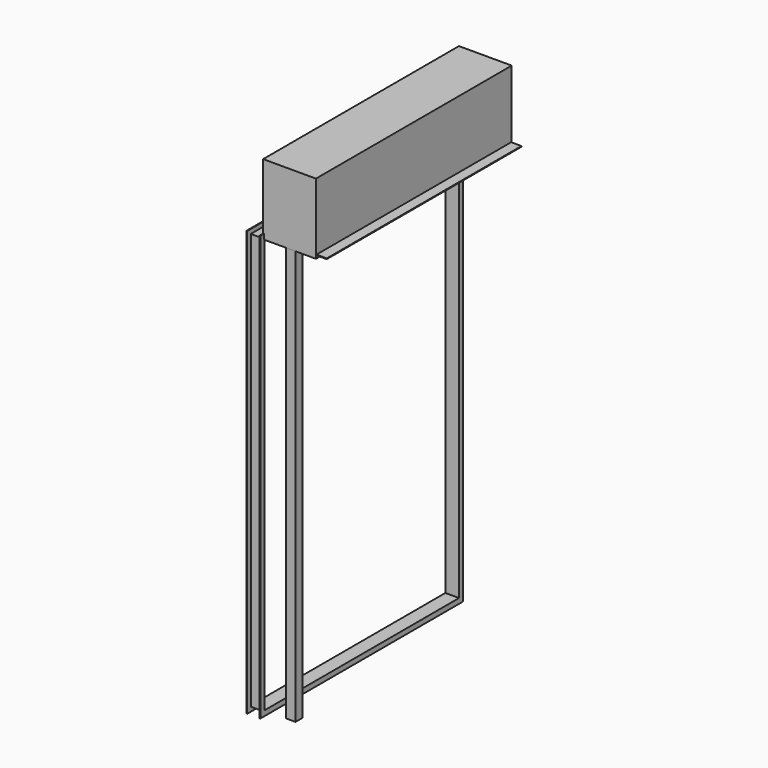
from build123d import *

# Parameters (mm, degrees)
F0_W      = 30
F0_H      = 2
F1_DEPTH  = 710
F8_DEPTH  = 1414
F9_W      = 154
F9_H      = 206
F10_DEPTH = 2
F11_W     = 154
F11_H     = 206
F12_DEPTH = 2


with BuildPart() as f1:
    # F0 (on Front) → F1 (new body)
    with BuildSketch(Plane.XZ):
        Polygon((-2, 0), (0, 0), (0, 8), (0, 10), (0, 206), (-154, 206), (-154, 0), (-152, 0), (-152, 204), (-2, 204), align=None)
        with Locations((15, 9)):
            Rectangle(F0_W, F0_H)
    extrude(amount=-F1_DEPTH)

    # F6: sweep along a path in F3
    with BuildLine(Plane.YZ.offset(-152)) as f6_path:
        Line((0, 0), (710, 0))
        Line((710, 0), (710, -1210))
        Line((710, -1210), (0, -1210))
        Line((0, -1210), (0, 0))
    # F5 (on offset) → F6 (sweep)
    with BuildSketch(Plane.XZ):
        Polygon((-192, 0), (-152, 0), (-152, 15), (-154, 15), (-154, 2), (-190, 2), (-190, 15), (-192, 15), align=None)
    sweep(path=f6_path.line, transition=Transition.RIGHT)

    # F7 (on face) → F8 (join, through all)
    with BuildSketch(Plane(origin=(0, 0, 204), x_dir=(1, 0, 0), z_dir=(0, 0, -1))):
        Polygon((-75, 0), (-77, 0), (-89, 0), (-89, -26), (-87, -26), (-87, -2), (-75, -2), (-63, -2), (-63, -26), (-61, -26), (-61, 0), align=None)
    extrude(amount=F8_DEPTH)

    # F9 (on face) → F10 (join)
    with BuildSketch(Plane.XZ):
        with Locations((-77, 103)):
            Rectangle(F9_W, F9_H)
    extrude(amount=F10_DEPTH)

    # F11 (on face) → F12 (join)
    with BuildSketch(Plane(origin=(0, 710, 0), x_dir=(-1, 0, 0), z_dir=(0, 1, 0))):
        with Locations((77, 103)):
            Rectangle(F11_W, F11_H)
    extrude(amount=F12_DEPTH)


solid = f1.part
